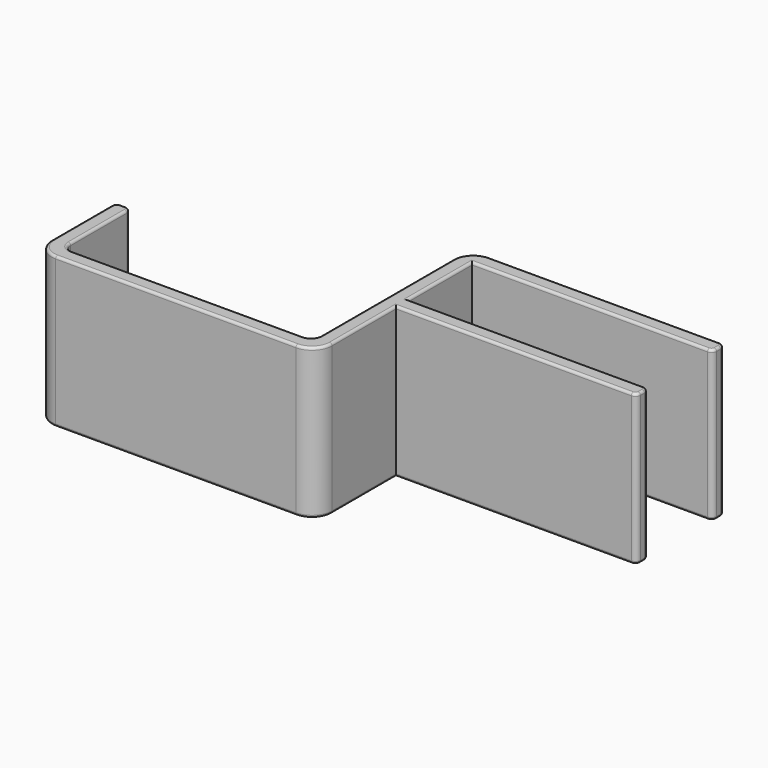
from build123d import *

# Parameters (mm, degrees)
PAD_DEPTH = 30
FILLET_R  = 0.5


with BuildPart() as part:
    # Sketch → Pad (new body)
    with BuildSketch(Plane(origin=(0, 0, 0), x_dir=(-1, 0, 0), z_dir=(0, 0, 1))):
        with BuildLine():
            ThreePointArc((1, 23), (-1.828427, 21.828427), (-3, 19))
            Line((-3, 3), (-3, 19))
            Line((-3, 3), (-49.999999, 3))
            ThreePointArc((-49.999999, 3), (-50.707106, 2.707107), (-50.999999, 2))
            Line((-50.999999, 1), (-50.999999, 2))
            ThreePointArc((-50.999999, 1), (-50.707106, 0.292893), (-49.999999, 0))
            Line((-3, 0), (-49.999999, 0))
            Line((-3, -16), (-3, 0))
            Line((-3, -16), (-49.999999, -16))
            ThreePointArc((-49.999999, -16), (-50.707106, -16.292893), (-50.999999, -17))
            Line((-50.999999, -18), (-50.999999, -17))
            ThreePointArc((-50.999999, -18), (-50.707106, -18.707107), (-49.999999, -19))
            Line((-4, -19), (-49.999999, -19))
            ThreePointArc((-4, -19), (-1.171573, -17.828427), (0, -15))
            Line((0, -15), (0, 18))
            ThreePointArc((2, 20), (0.585786, 19.414214), (0, 18))
            Line((2, 20), (48, 20))
            ThreePointArc((50, 18), (49.414214, 19.414214), (48, 20))
            Line((50, 18), (50, 4))
            ThreePointArc((50, 4), (50.292893, 3.292893), (51, 3))
            Line((52, 3), (51, 3))
            ThreePointArc((52, 3), (52.707107, 3.292893), (53, 4))
            Line((53, 19), (53, 4))
            ThreePointArc((53, 19), (51.828427, 21.828427), (49, 23))
            Line((1, 23), (49, 23))
        make_face()
    extrude(amount=PAD_DEPTH)

    # Fillet
    fillet_edges = [part.edges().sort_by_distance(p)[0] for p in [
        (-51.828427, -21.828427, 0),
        (-25, -23, 0),
        (1.828427, -21.828427, 0),
        (3, -11, 0),
        (26.5, -3, 0),
        (50.707106, -2.707107, 0),
        (50.999999, -1.5, 0),
        (50.707106, -0.292893, 0),
        (26.5, 0, 0),
        (3, 8, 0),
        (26.5, 16, 0),
        (50.707106, 16.292893, 0),
        (50.999999, 17.5, 0),
        (50.707106, 18.707107, 0),
        (27, 19, 0),
        (1.171573, 17.828427, 0),
        (0, -1.5, 0),
        (-0.585786, -19.414214, 0),
        (-25, -20, 0),
        (-49.414214, -19.414214, 0),
        (-50, -11, 0),
        (-50.292893, -3.292893, 0),
        (-51.5, -3, 0),
        (-52.707107, -3.292893, 0),
        (-53, -11.5, 0),
        (-51.828427, -21.828427, 30),
        (-25, -23, 30),
        (1.828427, -21.828427, 30),
        (3, -11, 30),
        (26.5, -3, 30),
        (50.707106, -2.707107, 30),
        (50.999999, -1.5, 30),
        (50.707106, -0.292893, 30),
        (26.5, 0, 30),
        (3, 8, 30),
        (26.5, 16, 30),
        (50.707106, 16.292893, 30),
        (50.999999, 17.5, 30),
        (50.707106, 18.707107, 30),
        (27, 19, 30),
        (1.171573, 17.828427, 30),
        (0, -1.5, 30),
        (-0.585786, -19.414214, 30),
        (-25, -20, 30),
        (-49.414214, -19.414214, 30),
        (-50, -11, 30),
        (-50.292893, -3.292893, 30),
        (-51.5, -3, 30),
        (-52.707107, -3.292893, 30),
        (-53, -11.5, 30),
    ]]
    fillet(fillet_edges, radius=FILLET_R)


solid = part.part
